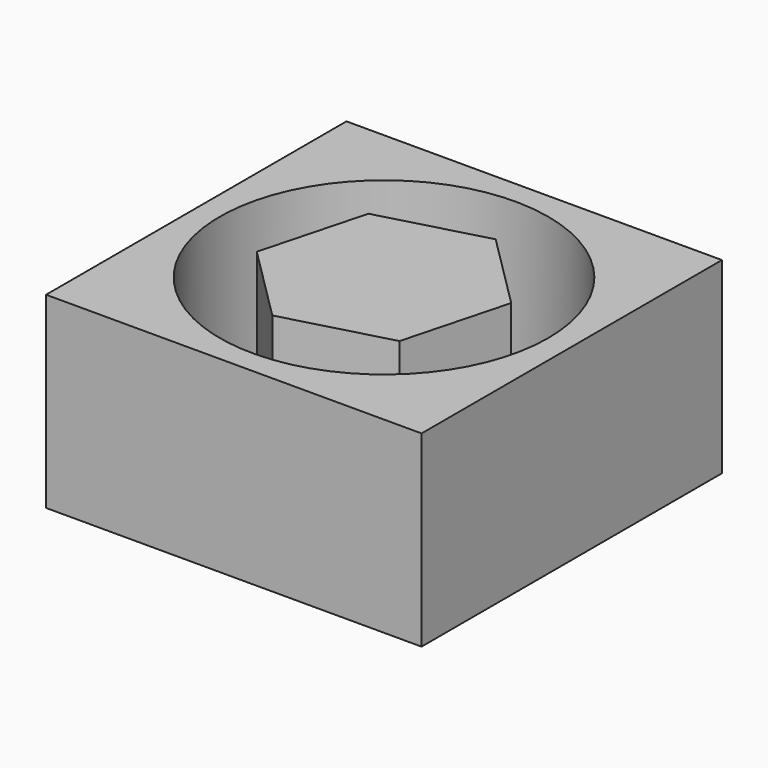
from build123d import *

# Parameters (mm, degrees)
F0_W     = 50.8
F0_H     = 50.8
F0_R     = 22.225
F1_DEPTH = 25.4


with BuildPart() as f1:
    # F0 (on Top) → F1 (new body)
    with BuildSketch(Plane.XY):
        Rectangle(F0_W, F0_H)
        Circle(F0_R, mode=Mode.SUBTRACT)
        Polygon((10.386222, -10.352764), (14.158868, 3.81835), (3.772645, 14.171114), (-10.386222, 10.352764), (-14.158868, -3.81835), (-3.772645, -14.171114), align=None)
    extrude(amount=F1_DEPTH)


solid = f1.part
